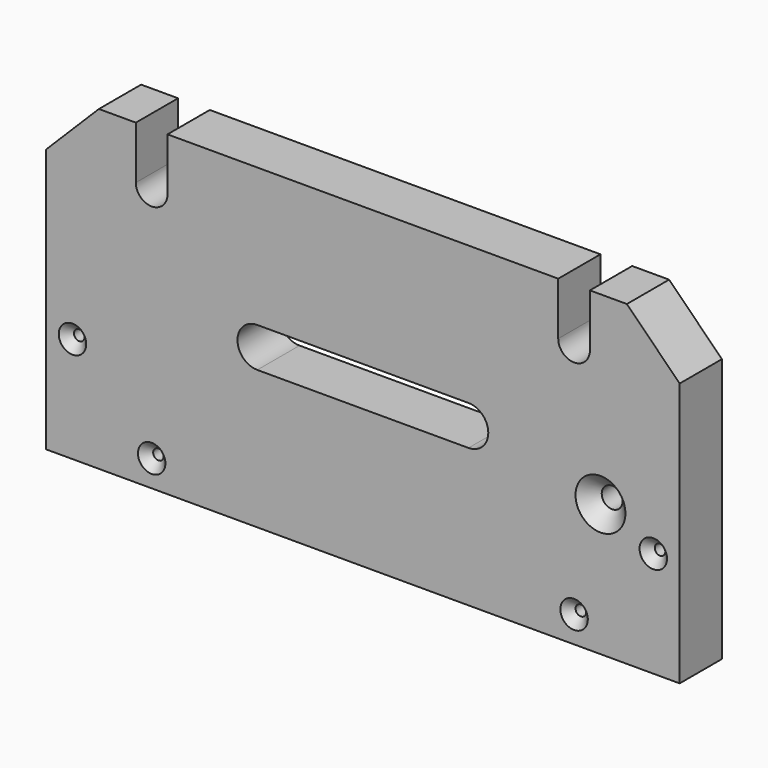
from build123d import *

# Parameters (mm, degrees)
F1_DEPTH       = 12.7
F3_DEPTH       = 12.701
F5_D           = 2.54
F5_CSINK_D     = 6.604
F5_CSINK_ANGLE = 90
F6_D           = 5
F6_CSINK_D     = 12
F6_CSINK_ANGLE = 90


with BuildPart() as f1:
    # F0 (on Front) → F1 (new body)
    with BuildSketch(Plane.XZ):
        Polygon((63.5, 38.1), (-63.5, 38.1), (-76.2, 25.4), (-76.2, -38.1), (76.2, -38.1), (76.2, 25.4), align=None)
    extrude(amount=F1_DEPTH)

    # F2 (on face) → F3 (cut, through all)
    with BuildSketch(Plane.XZ.offset(12.7)):
        with BuildLine():
            Line((-46.99, 38.1), (-54.61, 38.1))
            Line((-54.61, 38.1), (-54.61, 25.4))
            ThreePointArc((-54.61, 25.4), (-50.8, 21.59), (-46.99, 25.4))
            Line((-46.99, 25.4), (-46.99, 38.1))
        make_face()
        with BuildLine():
            Line((25.4, 4.7625), (0, 4.7625))
            Line((0, 4.7625), (-25.4, 4.7625))
            ThreePointArc((-25.4, 4.7625), (-30.1625, 0), (-25.4, -4.7625))
            Line((-25.4, -4.7625), (0, -4.7625))
            Line((0, -4.7625), (25.4, -4.7625))
            ThreePointArc((25.4, -4.7625), (30.1625, 0), (25.4, 4.7625))
        make_face()
        with BuildLine():
            Line((54.61, 38.1), (46.99, 38.1))
            Line((46.99, 38.1), (46.99, 25.4))
            ThreePointArc((46.99, 25.4), (50.8, 21.59), (54.61, 25.4))
            Line((54.61, 25.4), (54.61, 38.1))
        make_face()
    extrude(amount=-F3_DEPTH, mode=Mode.SUBTRACT)

    # F5 (through all)
    with Locations(Plane.XZ.offset(12.7)):
        with Locations((-69.85, -12.7), (-50.8, -31.75), (50.8, -31.75), (69.85, -12.7)):
            CounterSinkHole(F5_D / 2, F5_CSINK_D / 2, counter_sink_angle=F5_CSINK_ANGLE)

    # F6 (through all)
    with Locations(Plane.XZ.offset(12.7)):
        with Locations((57.15, -6.35)):
            CounterSinkHole(F6_D / 2, F6_CSINK_D / 2, counter_sink_angle=F6_CSINK_ANGLE)


solid = f1.part
